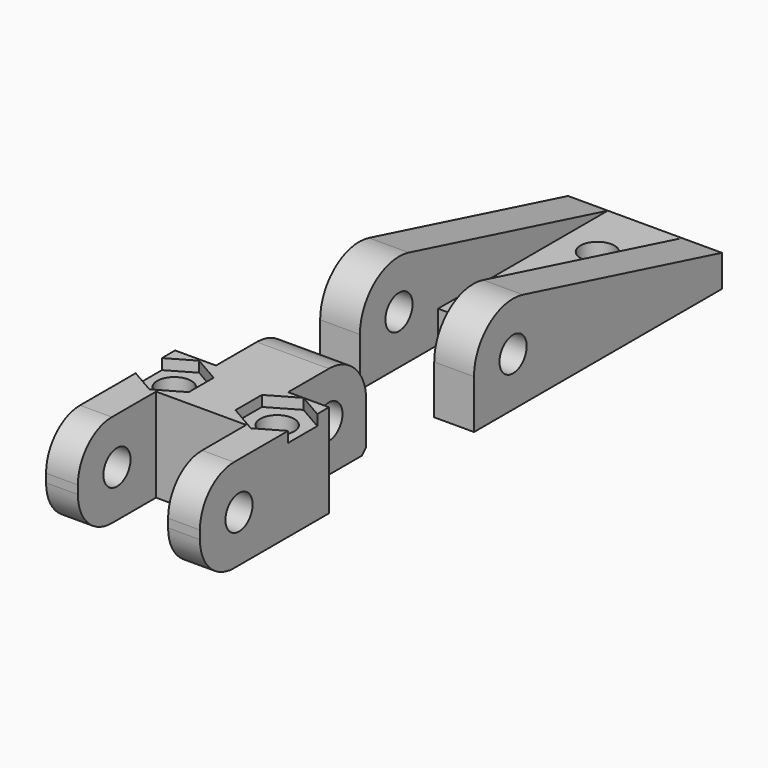
from build123d import *

# Parameters (mm, degrees)
F0_R      = 1.6
F1_DEPTH  = 14.5
F2_W      = 3.85
F2_H      = 9.2
F2_W_2    = 7
F2_W_3    = 8.5
F3_DEPTH  = 19.8727577452
F4_R      = 1.6
F5_DEPTH  = 8.8
F6_DEPTH  = 1
F7_R      = 4
F9_W      = 7
F9_H      = 20
F10_DEPTH = 5.17
F11_R     = 1.6
F12_DEPTH = 3
F13_SIZE  = 0.5


with BuildPart() as f1:
    # F0 (on Right) → F1 (new body)
    with BuildSketch(Plane.YZ):
        with BuildLine():
            ThreePointArc((-16.883386299, -4.4), (-21.283386299, 0), (-16.883386299, 4.4))
            Line((-16.883386299, 4.4), (-36.883386299, 4.4))
            Line((-36.883386299, 4.4), (-36.883386299, -4.4))
            Line((-36.883386299, -4.4), (-16.883386299, -4.4))
        make_face()
        with Locations((-32.283386299, 0)):
            Circle(F0_R, mode=Mode.SUBTRACT)
        with BuildLine():
            ThreePointArc((-16.883386299, -4.4), (-13.7721164618, -3.1112698372), (-12.483386299, 0))
            ThreePointArc((-12.483386299, 0), (-13.7721164618, 3.1112698372), (-16.883386299, 4.4))
            ThreePointArc((-16.883386299, 4.4), (-21.283386299, 0), (-16.883386299, -4.4))
        make_face()
        with Locations((-16.883386299, 0)):
            Circle(F0_R, mode=Mode.SUBTRACT)
        with BuildLine():
            Line((-12.483386299, -4.4), (-12.483386299, 0))
            ThreePointArc((-12.483386299, 0), (-13.7721164618, -3.1112698372), (-16.883386299, -4.4))
            Line((-16.883386299, -4.4), (-12.483386299, -4.4))
        make_face()
    extrude(amount=F1_DEPTH)


with BuildPart() as f1b:
    # F0 (on Right) → F1, piece 2 (new body)
    with BuildSketch(Plane.YZ):
        with BuildLine():
            ThreePointArc((1.149851697, 4.4539691372), (-2.816973748, 3.6365724114), (-4.6, 0))
            ThreePointArc((-4.6, 0), (-3.2526911935, -3.2526911935), (0, -4.6))
            ThreePointArc((0, -4.6), (3.2526911935, -3.2526911935), (4.6, 0))
            ThreePointArc((4.6, 0), (3.6365724114, 2.816973748), (1.149851697, 4.4539691372))
        make_face()
        Circle(F0_R, mode=Mode.SUBTRACT)
        with BuildLine():
            ThreePointArc((4.6, 0), (3.2526911935, -3.2526911935), (0, -4.6))
            Line((0, -4.6), (24.6, -4.6))
            Line((24.6, -4.6), (24.6, -1.6))
            Line((24.6, -1.6), (1.149851697, 4.4539691372))
            ThreePointArc((1.149851697, 4.4539691372), (3.6365724114, 2.816973748), (4.6, 0))
        make_face()
        with BuildLine():
            ThreePointArc((0, -4.6), (-3.2526911935, -3.2526911935), (-4.6, 0))
            Line((-4.6, 0), (-4.6, -4.6))
            Line((-4.6, -4.6), (0, -4.6))
        make_face()
    extrude(amount=F1_DEPTH)


with BuildPart() as f3_tool:
    # F2 (on face) → F3 (new body, up to face)
    with BuildSketch(Plane(origin=(0, 0, -4.6), x_dir=(1, 0, 0), z_dir=(0, 0, -1))):
        with Locations((1.925, 17.083386299)):
            Rectangle(F2_W, F2_H)
        with Locations((12.575, 17.083386299)):
            Rectangle(F2_W, F2_H)
        with Locations((7.25, 0)):
            Rectangle(F2_W_2, F2_H)
        with Locations((7.25, 32.283386299)):
            Rectangle(F2_W_3, F2_H)
    extrude(amount=-F3_DEPTH)


with BuildPart() as f1_1:
    add(f1.part)

    # F3: cut by f3_tool
    add(f3_tool.part, mode=Mode.SUBTRACT)

    # F4 (on face) → F5 (cut, through all)
    with BuildSketch(Plane.XY.offset(4.4)):
        with Locations((2.4, -24.783386299)):
            Circle(F4_R)
        with Locations((12.1, -24.783386299)):
            Circle(F4_R)
    extrude(amount=-F5_DEPTH, mode=Mode.SUBTRACT)

    # F4 (on face) → F6 (cut)
    with BuildSketch(Plane.XY.offset(4.4)):
        Polygon((0, -23.2415896397), (0, -26.3251829583), (2.4, -27.7108236044), (4.9352350744, -26.2471049517), (4.9352350744, -23.3196676463), (2.4, -21.8559489936), align=None)
        with Locations((2.4, -24.783386299)):
            Circle(F4_R, mode=Mode.SUBTRACT)
        Polygon((12.1067976077, -21.683386299), (12.0932023923, -21.683386299), (9.4119224444, -23.2314239987), (9.4119224444, -26.3353485993), (12.1, -27.8873108997), (14.5, -26.5016702536), (14.5, -23.0651023444), align=None)
        with Locations((12.1, -24.783386299)):
            Circle(F4_R, mode=Mode.SUBTRACT)
    extrude(amount=-F6_DEPTH, mode=Mode.SUBTRACT)

    # F7
    f7_edges = [f1_1.edges().sort_by_distance(p)[0] for p in [
        (13, -36.883386, 4.4),
        (13, -36.883386, -4.4),
        (1.5, -36.883386, 4.4),
        (1.5, -36.883386, -4.4),
    ]]
    fillet(f7_edges, radius=F7_R)

    # F13
    f13_edges = [f1_1.edges().sort_by_distance(p)[0] for p in [
        (7.25, -12.483386, -4.4),
    ]]
    chamfer(f13_edges, length=F13_SIZE)


with BuildPart() as f1b_1:
    add(f1b.part)

    # F3: cut by f3_tool
    add(f3_tool.part, mode=Mode.SUBTRACT)

    # F9 (on offset) → F10 (cut, through all)
    with BuildSketch(Plane(origin=(0, 0, 3.57), x_dir=(1, 0, 0), z_dir=(0, 0, -1))):
        with Locations((7.25, -14.6)):
            Rectangle(F9_W, F9_H)
    extrude(amount=F10_DEPTH, mode=Mode.SUBTRACT)

    # F11 (on face) → F12 (cut, through all)
    with BuildSketch(Plane.XY.offset(-1.6)):
        with Locations((7.25, 19)):
            Circle(F11_R)
        with Locations((7.25, 10.2)):
            Circle(F11_R)
    extrude(amount=-F12_DEPTH, mode=Mode.SUBTRACT)


solid = Compound([f1_1.part, f1b_1.part])
